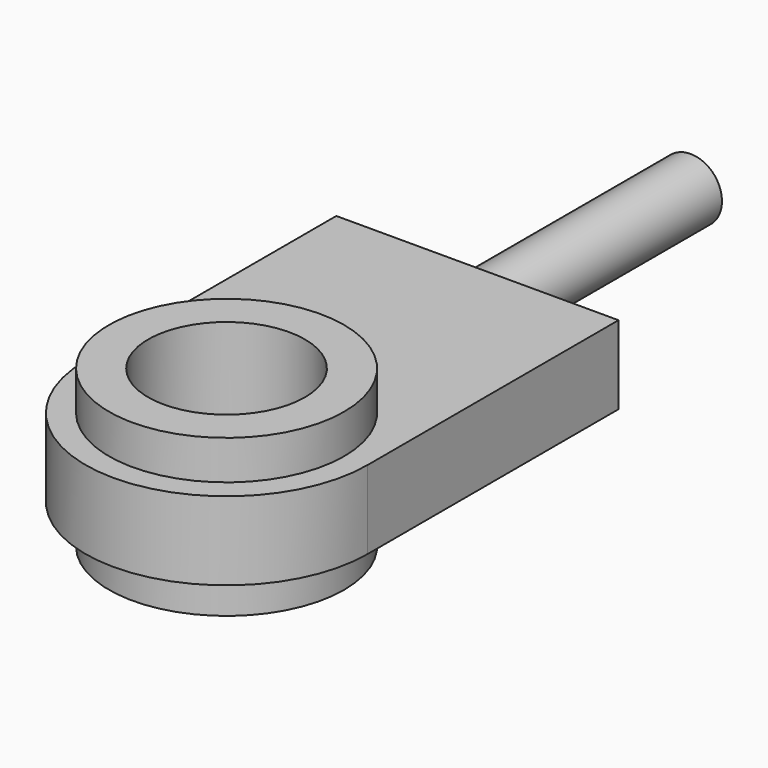
from build123d import *

# Parameters (mm, degrees)
F0_R     = 37.5
F0_R_2   = 25
F1_DEPTH = 25
F2_DEPTH = 12.5
F3_R     = 10
F4_DEPTH = 85


with BuildPart() as f1:
    # F0 (on Top) → F1 (new body, symmetric)
    with BuildSketch(Plane.XY):
        Circle(F0_R)
        Circle(F0_R_2, mode=Mode.SUBTRACT)
    extrude(amount=F1_DEPTH, both=True)

    # F0 (on Top) → F2 (join, symmetric)
    with BuildSketch(Plane.XY):
        with BuildLine():
            Line((-45, 100), (-45, 0))
            ThreePointArc((-45, 0), (0, -45), (45, 0))
            Line((45, 0), (45, 100))
            Line((45, 100), (-45, 100))
        make_face()
        Circle(F0_R, mode=Mode.SUBTRACT)
    extrude(amount=F2_DEPTH, both=True)

    # F3 (on face) → F4 (join)
    with BuildSketch(Plane(origin=(0, 100, 0), x_dir=(-1, 0, 0), z_dir=(0, 1, 0))):
        Circle(F3_R)
    extrude(amount=F4_DEPTH)


solid = f1.part
